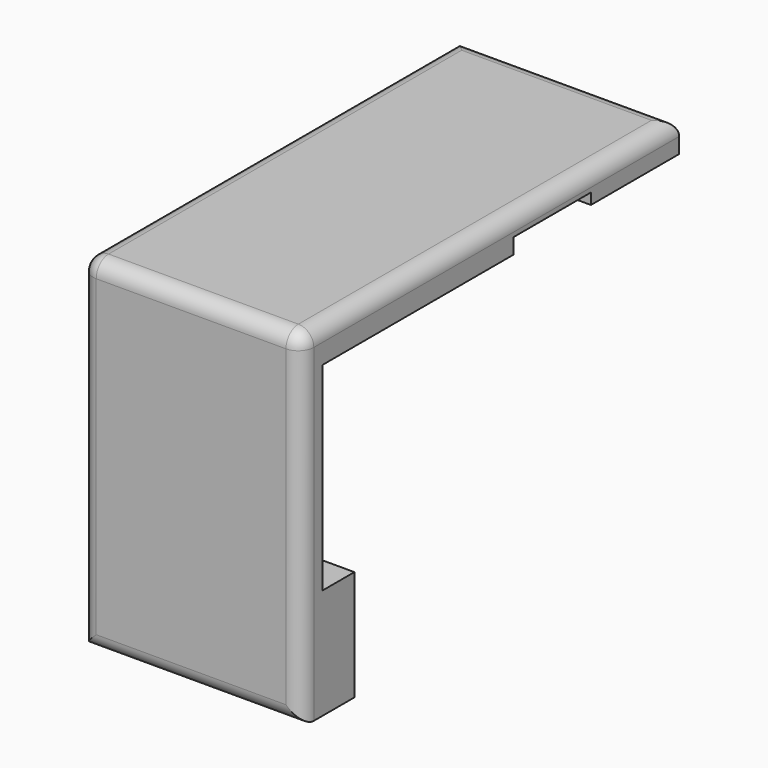
from build123d import *

# Parameters (mm, degrees)
F1_DEPTH = 50
F2_R     = 3.5
F3_R     = 3.5
F4_R     = 4
F5_DEPTH = 5
F6_SIZE  = 4
F7_R     = 2


with BuildPart() as f1:
    # F0 (on Right) → F1 (new body)
    with BuildSketch(Plane.YZ):
        Polygon((97, 8), (-10, 8), (-10, -70), (5, -70), (5, -45), (0, -45), (0, 0), (50, 0), (50, 3.5), (72, 3.5), (72, 1), (97, 1), align=None)
    extrude(amount=F1_DEPTH)

    # F2
    f2_edges = [f1.edges().sort_by_distance(p)[0] for p in [
        (25, -10, 8),
    ]]
    fillet(f2_edges, radius=F2_R)

    # F3
    f3_edges = [f1.edges().sort_by_distance(p)[0] for p in [
        (50, 45.25, 8),
        (25, 97, 8),
        (0, 45.25, 8),
        (25, -10, -70),
    ]]
    fillet(f3_edges, radius=F3_R)

    # F4 (on face) → F5 (cut)
    with BuildSketch(Plane(origin=(0, 5, 0), x_dir=(-1, 0, 0), z_dir=(0, 1, 0))):
        with Locations((-37.5, -57.5)):
            Circle(F4_R)
        with Locations((-12.5, -57.5)):
            Circle(F4_R)
    extrude(amount=-F5_DEPTH, mode=Mode.SUBTRACT)

    # F6
    f6_edges = [f1.edges().sort_by_distance(p)[0] for p in [
        (50, 0, -22.5),
        (0, 0, -22.5),
    ]]
    chamfer(f6_edges, length=F6_SIZE)

    # F7
    f7_edges = [f1.edges().sort_by_distance(p)[0] for p in [
        (25, 0, 0),
    ]]
    fillet(f7_edges, radius=F7_R)


solid = f1.part
